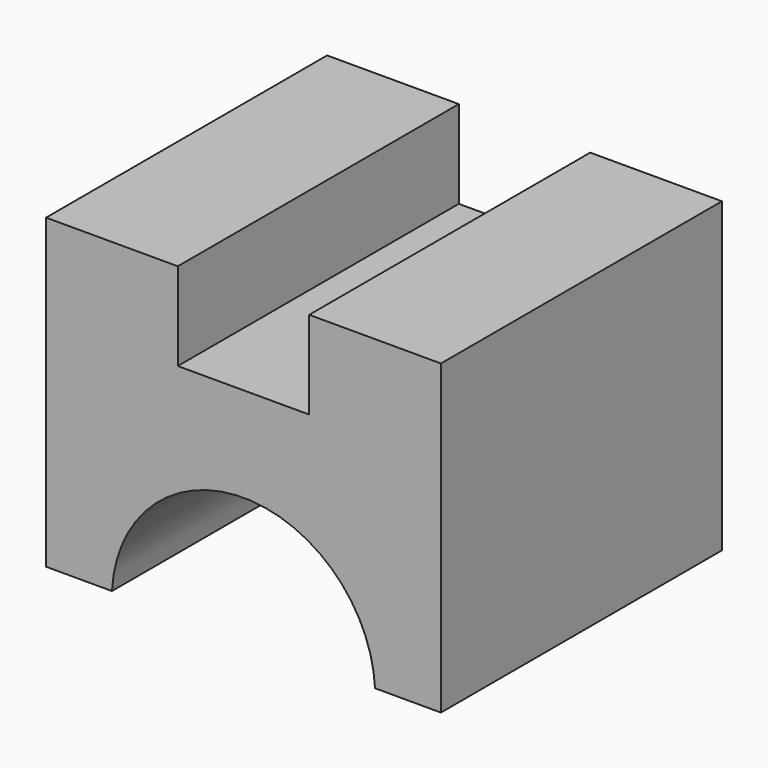
from build123d import *

# Parameters (mm, degrees)
F1_DEPTH = 1016


with BuildPart() as f1:
    # F0 (on Front) → F1 (new body)
    with BuildSketch(Plane.XZ):
        with BuildLine():
            Line((-190.002191, 444.5), (-571.002191, 444.5))
            Line((-571.002191, 444.5), (-571.002191, -444.5))
            Line((-571.002191, -444.5), (-380.502191, -444.5))
            ThreePointArc((-380.502191, -444.5), (0, -82.970045), (380.502191, -444.5))
            Line((380.502191, -444.5), (571.002191, -444.5))
            Line((571.002191, -444.5), (571.002191, 444.5))
            Line((571.002191, 444.5), (190.002191, 444.5))
            Line((190.002191, 444.5), (190.002191, 190.5))
            Line((190.002191, 190.5), (-190.002191, 190.5))
            Line((-190.002191, 190.5), (-190.002191, 444.5))
        make_face()
    extrude(amount=F1_DEPTH)


solid = f1.part
